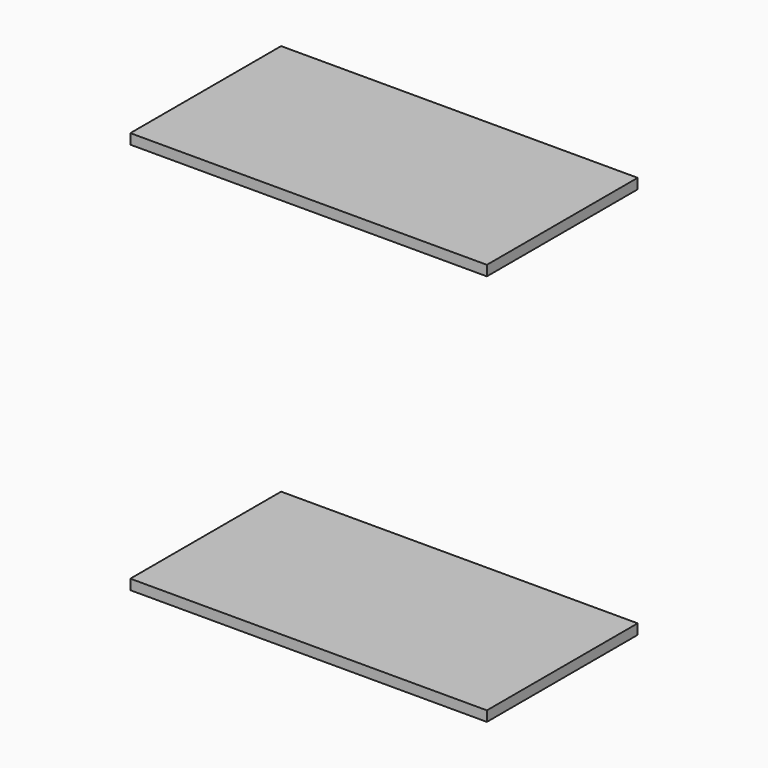
from build123d import *

# Parameters (mm, degrees)
F0_W     = 70
F0_H     = 0.8
F1_DEPTH = 1
F0_H_2   = 18.1
F2_DEPTH = 1


with BuildPart() as f1:
    # F0 (on Top) → F1 (new body, symmetric)
    with BuildSketch(Plane.XY):
        Rectangle(F0_W, F0_H)
    extrude(amount=F1_DEPTH, both=True)

    # F0 (on Top) → F2 (join, symmetric)
    with BuildSketch(Plane.XY):
        with Locations((0, 9.45)):
            Rectangle(F0_W, F0_H_2)
        with Locations((0, -9.45)):
            Rectangle(F0_W, F0_H_2)
    extrude(amount=F2_DEPTH, both=True)


with BuildPart() as f3_1:
    # F3: copy of F1
    add(f1.part.moved(Location((0, 0, -77))))


solid = Compound([f1.part, f3_1.part])
